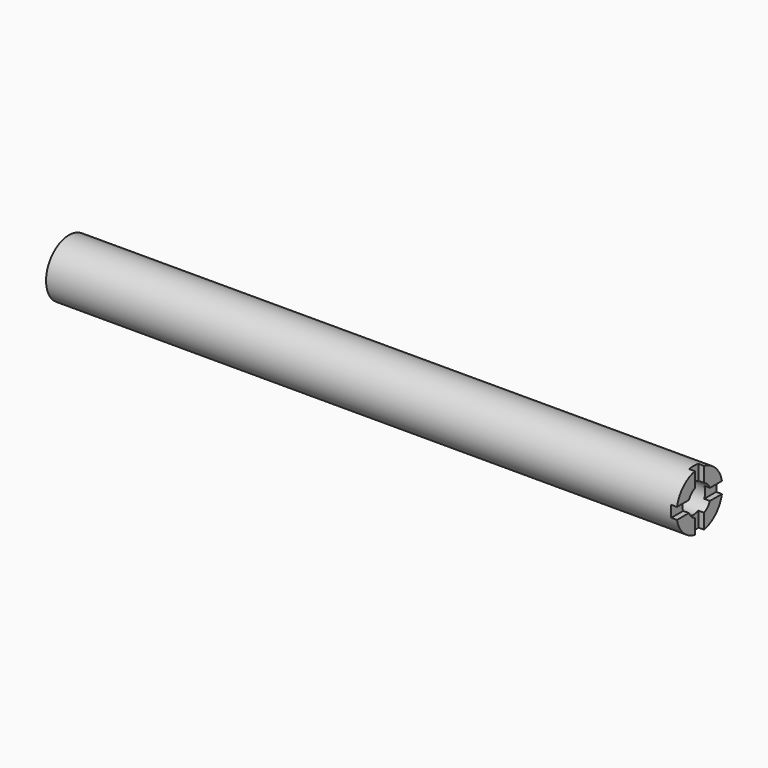
from build123d import *

# Parameters (mm, degrees)
F0_R     = 12.7
F1_DEPTH = 279.4
F2_R     = 6.35
F3_DEPTH = 25.4
F5_DEPTH = 2.54


with BuildPart() as f1:
    # F0 (on Right) → F1 (new body)
    with BuildSketch(Plane.YZ):
        Circle(F0_R)
    extrude(amount=F1_DEPTH)

    # F2 (on face) → F3 (cut)
    with BuildSketch(Plane.YZ.offset(279.4)):
        Circle(F2_R)
    extrude(amount=-F3_DEPTH, mode=Mode.SUBTRACT)

    # F4 (on face) → F5 (cut)
    with BuildSketch(Plane.YZ.offset(279.4)):
        with BuildLine():
            Line((12.443408, 2.54), (5.819871, 2.54))
            ThreePointArc((5.819871, 2.54), (6.35, 0), (5.819871, -2.54))
            Line((5.819871, -2.54), (12.443408, -2.54))
            ThreePointArc((12.443408, -2.54), (12.7, 0), (12.443408, 2.54))
        make_face()
        with BuildLine():
            ThreePointArc((2.54, 12.443408), (0, 12.7), (-2.54, 12.443408))
            Line((-2.54, 12.443408), (-2.54, 5.819871))
            ThreePointArc((-2.54, 5.819871), (0, 6.35), (2.54, 5.819871))
            Line((2.54, 5.819871), (2.54, 12.443408))
        make_face()
        with BuildLine():
            ThreePointArc((-12.443408, 2.54), (-12.7, 0), (-12.443408, -2.54))
            Line((-12.443408, -2.54), (-5.819871, -2.54))
            ThreePointArc((-5.819871, -2.54), (-6.35, 0), (-5.819871, 2.54))
            Line((-5.819871, 2.54), (-12.443408, 2.54))
        make_face()
        with BuildLine():
            ThreePointArc((2.54, -5.819871), (0, -6.35), (-2.54, -5.819871))
            Line((-2.54, -5.819871), (-2.54, -12.443408))
            ThreePointArc((-2.54, -12.443408), (0, -12.7), (2.54, -12.443408))
            Line((2.54, -12.443408), (2.54, -5.819871))
        make_face()
    extrude(amount=-F5_DEPTH, mode=Mode.SUBTRACT)


solid = f1.part
